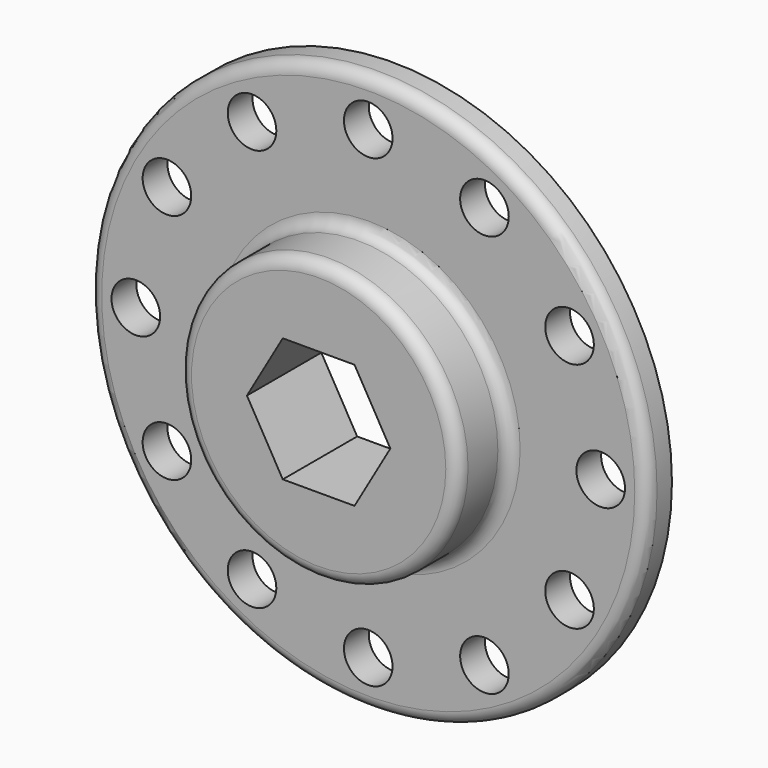
from build123d import *

# Parameters (mm, degrees)
F0_R     = 28.575
F0_R_2   = 2.4892
F0_R_3   = 14.29512
F1_DEPTH = 3.175
F2_DEPTH = 9.525
F3_R     = 1.27


with BuildPart() as f1:
    # F0 (on Front) → F1 (new body)
    with BuildSketch(Plane.XZ):
        Circle(F0_R)
        with Locations((-11.90625, -20.62223)):
            Circle(F0_R_2, mode=Mode.SUBTRACT)
        with Locations((-20.62223, -11.90625)):
            Circle(F0_R_2, mode=Mode.SUBTRACT)
        with Locations((0, -23.8125)):
            Circle(F0_R_2, mode=Mode.SUBTRACT)
        with Locations((11.90625, -20.62223)):
            Circle(F0_R_2, mode=Mode.SUBTRACT)
        with Locations((20.62223, -11.90625)):
            Circle(F0_R_2, mode=Mode.SUBTRACT)
        with Locations((-23.8125, 0)):
            Circle(F0_R_2, mode=Mode.SUBTRACT)
        with Locations((-20.62223, 11.90625)):
            Circle(F0_R_2, mode=Mode.SUBTRACT)
        with Locations((-11.90625, 20.62223)):
            Circle(F0_R_2, mode=Mode.SUBTRACT)
        Circle(F0_R_3, mode=Mode.SUBTRACT)
        with Locations((23.8125, 0)):
            Circle(F0_R_2, mode=Mode.SUBTRACT)
        with Locations((20.62223, 11.90625)):
            Circle(F0_R_2, mode=Mode.SUBTRACT)
        with Locations((11.90625, 20.62223)):
            Circle(F0_R_2, mode=Mode.SUBTRACT)
        with Locations((0, 23.8125)):
            Circle(F0_R_2, mode=Mode.SUBTRACT)
        Circle(F0_R_3)
        Polygon((-7.347013, 0), (-3.673507, 6.3627), (3.673507, 6.3627), (7.347013, 0), (3.673507, -6.3627), (-3.673507, -6.3627), align=None, mode=Mode.SUBTRACT)
    extrude(amount=F1_DEPTH)

    # F0 (on Front) → F2 (join)
    with BuildSketch(Plane.XZ):
        Circle(F0_R_3)
        Polygon((-7.347013, 0), (-3.673507, 6.3627), (3.673507, 6.3627), (7.347013, 0), (3.673507, -6.3627), (-3.673507, -6.3627), align=None, mode=Mode.SUBTRACT)
    extrude(amount=F2_DEPTH)

    # F3
    f3_edges = [f1.edges().sort_by_distance(p)[0] for p in [
        (-28.575, -3.175, 0),
        (-14.29512, -9.525, 0),
        (-14.29512, -3.175, 0),
    ]]
    fillet(f3_edges, radius=F3_R)


solid = f1.part
